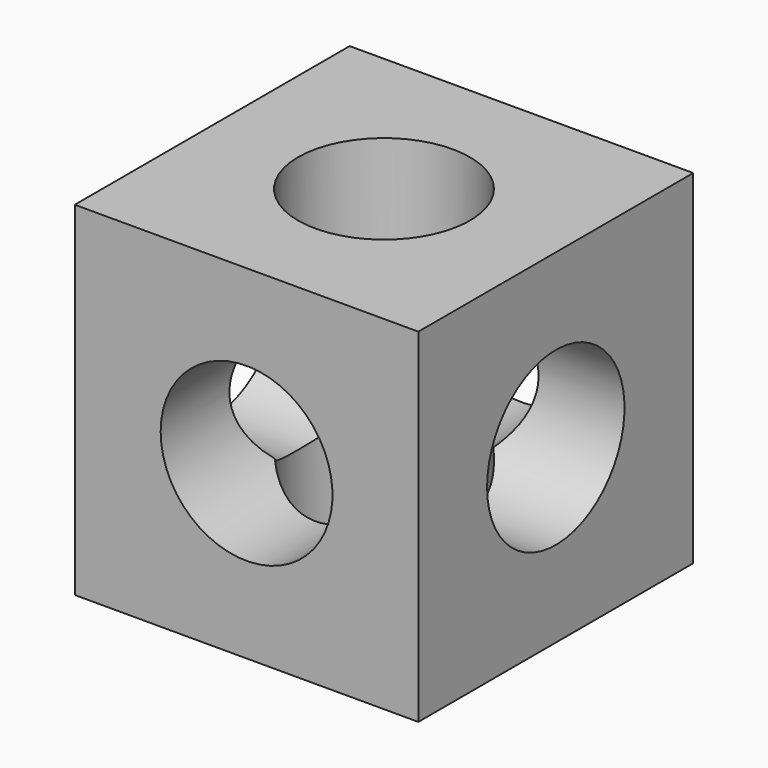
from build123d import *

# Parameters (mm, degrees)
F0_W     = 20
F0_H     = 20
F1_DEPTH = 20
F3_D     = 10
F5_D     = 10
F7_D     = 10


with BuildPart() as f1:
    # F0 (on Front) → F1 (new body)
    with BuildSketch(Plane.XZ):
        with Locations((10, 10)):
            Rectangle(F0_W, F0_H)
    extrude(amount=F1_DEPTH)

    # F3 (through all)
    with Locations(Plane(origin=(0, 0, 0), x_dir=(1, 0, 0), z_dir=(0, 0, -1))):
        with Locations((10, 10)):
            Hole(F3_D / 2)

    # F5 (through all)
    with Locations(Plane.XZ.offset(20)):
        with Locations((10, 10)):
            Hole(F5_D / 2)

    # F7 (through all)
    with Locations(Plane.YZ.offset(20)):
        with Locations((-10, 10)):
            Hole(F7_D / 2)


solid = f1.part
